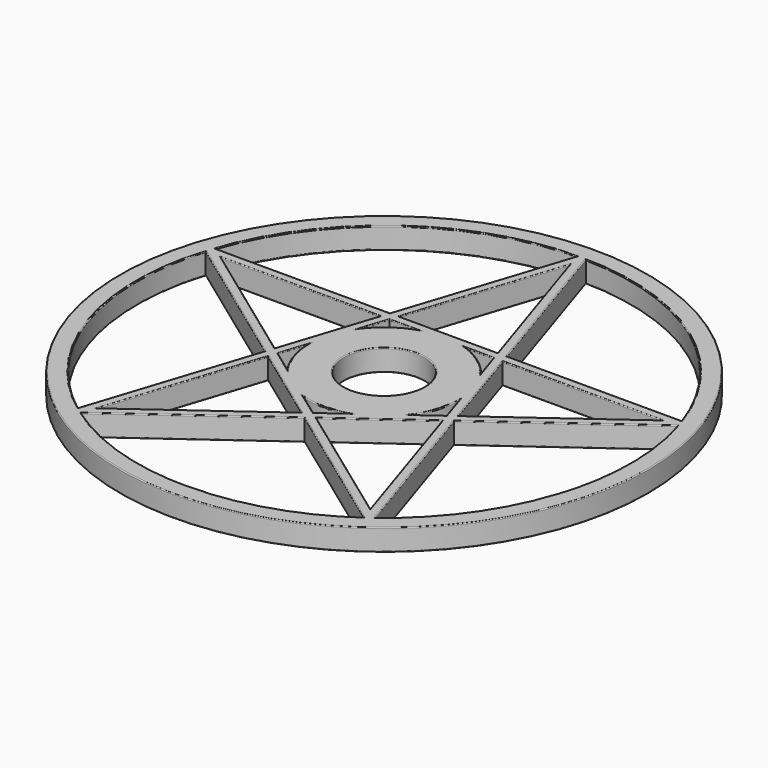
from build123d import *

# Parameters (mm, degrees)
F1_DEPTH = 6.35
F2_R     = 77.47
F2_R_2   = 72.39
F3_DEPTH = 6.35
F4_R     = 22.225
F4_R_2   = 11.8745
F5_DEPTH = 6.35
F6_R     = 0.254


with BuildPart() as f1:
    # F0 (on Top) → F1 (new body)
    with BuildSketch(Plane.XY):
        Polygon((17.1562553422, 23.613559676), (0, 76.4150843024), (-17.1562553422, 23.613559676), (-72.6750638691, 23.613559676), (-27.7594042634, -9.0195772009), (-44.9156596057, -61.8211018273), (0, -29.1879649503), (44.9156596057, -61.8211018273), (27.7594042634, -9.0195772009), (72.6750638691, 23.613559676), align=None)
        Polygon((-2.198399759, -27.5907340319), (-39.9998883028, -55.0551230809), (-25.5610045044, -10.6168081193), align=None, mode=Mode.SUBTRACT)
        Polygon((25.5610045044, -10.6168081193), (39.9998883028, -55.0551230809), (2.198399759, -27.5907340319), align=None, mode=Mode.SUBTRACT)
        Polygon((-24.7212905174, -8.0324342054), (-15.2785977855, 21.0291857621), (15.2785977855, 21.0291857621), (24.7212905174, -8.0324342054), (0, -25.9935031134), align=None, mode=Mode.SUBTRACT)
        Polygon((-26.9196902763, -6.4352032869), (-64.7211788202, 21.0291857621), (-17.9959693293, 21.0291857621), align=None, mode=Mode.SUBTRACT)
        Polygon((17.9959693293, 21.0291857621), (64.7211788202, 21.0291857621), (26.9196902763, -6.4352032869), align=None, mode=Mode.SUBTRACT)
        Polygon((-14.4388837984, 23.613559676), (0, 68.0518746376), (14.4388837984, 23.613559676), align=None, mode=Mode.SUBTRACT)
    extrude(amount=F1_DEPTH)

    # F2 (on Top) → F3 (join)
    with BuildSketch(Plane.XY):
        Circle(F2_R)
        Circle(F2_R_2, mode=Mode.SUBTRACT)
    extrude(amount=F3_DEPTH)

    # F4 (on Top) → F5 (join)
    with BuildSketch(Plane.XY):
        Circle(F4_R)
        Circle(F4_R_2, mode=Mode.SUBTRACT)
    extrude(amount=F5_DEPTH)

    # F6
    f6_edges = [f1.edges().sort_by_distance(p)[0] for p in [
        (-77.47, 0, 6.35),
        (20.740804, -44.257041, 6.35),
        (0, -72.39, 6.35),
        (-20.740804, -44.257041, 6.35),
        (-35.681687, -33.401855, 6.35),
        (-68.846981, -22.36974, 6.35),
        (-48.500209, 6.049499, 6.35),
        (-21.099144, -41.322929, 6.35),
        (-32.780446, -32.835966, 6.35),
        (-13.879702, -19.103771, 6.35),
        (32.780446, -32.835966, 6.35),
        (21.099144, -41.322929, 6.35),
        (13.879702, -19.103771, 6.35),
        (23.471833, -4.186999, 6.35),
        (21.450168, -10.409044, 6.35),
        (21.137231, -6.867903, 6.35),
        (16.528055, 17.18375, 6.35),
        (13.063527, 17.980403, 6.35),
        (11.235268, 21.029186, 6.35),
        (-11.235268, 21.029186, 6.35),
        (-13.063527, 17.980403, 6.35),
        (-16.528055, 17.18375, 6.35),
        (-23.471833, -4.186999, 6.35),
        (-21.137231, -6.867903, 6.35),
        (-21.450168, -10.409044, 6.35),
        (-3.271123, -23.616893, 6.35),
        (0, -22.225, 6.35),
        (3.271123, -23.616893, 6.35),
        (48.500209, 6.049499, 6.35),
        (68.846981, -22.36974, 6.35),
        (35.681687, -33.401855, 6.35),
        (-45.820435, 7.296991, 6.35),
        (-41.358574, 21.029186, 6.35),
        (-22.45783, 7.296991, 6.35),
        (-42.793299, 23.61356, 6.35),
        (-42.549774, 58.56474, 6.35),
        (-9.233973, 47.995837, 6.35),
        (22.45783, 7.296991, 6.35),
        (41.358574, 21.029186, 6.35),
        (45.820435, 7.296991, 6.35),
        (-7.219442, 45.832717, 6.35),
        (7.219442, 45.832717, 6.35),
        (0, 23.61356, 6.35),
        (42.793299, 23.61356, 6.35),
        (9.233973, 47.995837, 6.35),
        (42.549774, 58.56474, 6.35),
        (-11.8745, 0, 6.35),
        (-77.47, 0, 0),
        (20.740804, -44.257041, 0),
        (0, -72.39, 0),
        (-20.740804, -44.257041, 0),
        (-35.681687, -33.401855, 0),
        (-68.846981, -22.36974, 0),
        (-48.500209, 6.049499, 0),
        (-21.099144, -41.322929, 0),
        (-32.780446, -32.835966, 0),
        (-13.879702, -19.103771, 0),
        (32.780446, -32.835966, 0),
        (21.099144, -41.322929, 0),
        (13.879702, -19.103771, 0),
        (23.471833, -4.186999, 0),
        (21.450168, -10.409044, 0),
        (21.137231, -6.867903, 0),
        (16.528055, 17.18375, 0),
        (13.063527, 17.980403, 0),
        (11.235268, 21.029186, 0),
        (-11.235268, 21.029186, 0),
        (-13.063527, 17.980403, 0),
        (-16.528055, 17.18375, 0),
        (-23.471833, -4.186999, 0),
        (-21.137231, -6.867903, 0),
        (-21.450168, -10.409044, 0),
        (-3.271123, -23.616893, 0),
        (0, -22.225, 0),
        (3.271123, -23.616893, 0),
        (48.500209, 6.049499, 0),
        (68.846981, -22.36974, 0),
        (35.681687, -33.401855, 0),
        (-45.820435, 7.296991, 0),
        (-41.358574, 21.029186, 0),
        (-22.45783, 7.296991, 0),
        (-42.793299, 23.61356, 0),
        (-42.549774, 58.56474, 0),
        (-9.233973, 47.995837, 0),
        (22.45783, 7.296991, 0),
        (41.358574, 21.029186, 0),
        (45.820435, 7.296991, 0),
        (-7.219442, 45.832717, 0),
        (7.219442, 45.832717, 0),
        (0, 23.61356, 0),
        (42.793299, 23.61356, 0),
        (9.233973, 47.995837, 0),
        (42.549774, 58.56474, 0),
        (-11.8745, 0, 0),
    ]]
    fillet(f6_edges, radius=F6_R)


solid = f1.part
